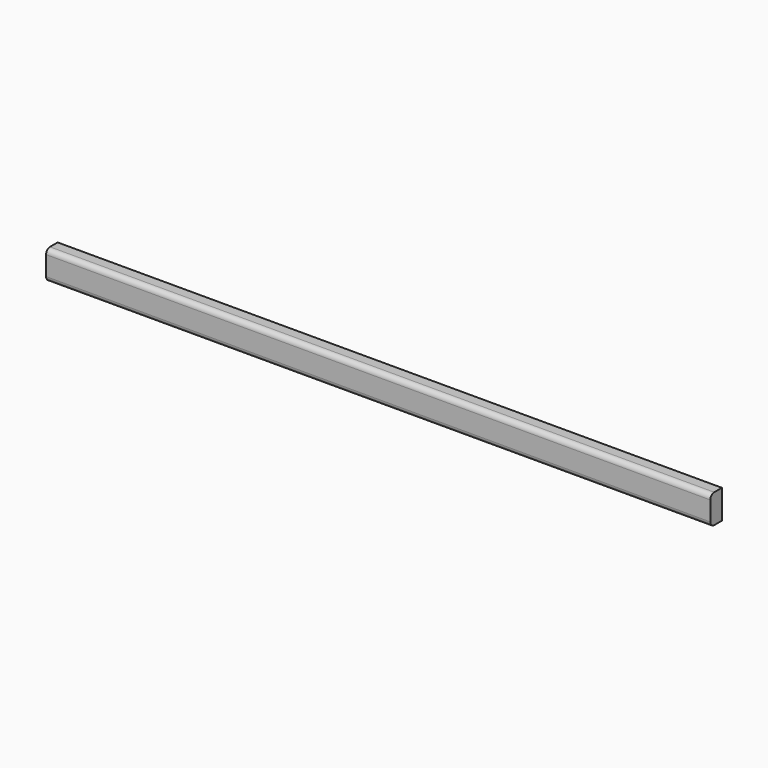
from build123d import *

# Parameters (mm, degrees)
F0_W     = 873.125
F0_H     = 38.1
F1_DEPTH = 19.05
F2_R     = 6.35


with BuildPart() as f1:
    # F0 (on Front) → F1 (new body)
    with BuildSketch(Plane.XZ):
        Rectangle(F0_W, F0_H)
    extrude(amount=F1_DEPTH)

    # F2
    f2_edges = [f1.edges().sort_by_distance(p)[0] for p in [
        (0, -19.05, 19.05),
        (0, -19.05, -19.05),
    ]]
    fillet(f2_edges, radius=F2_R)


solid = f1.part
